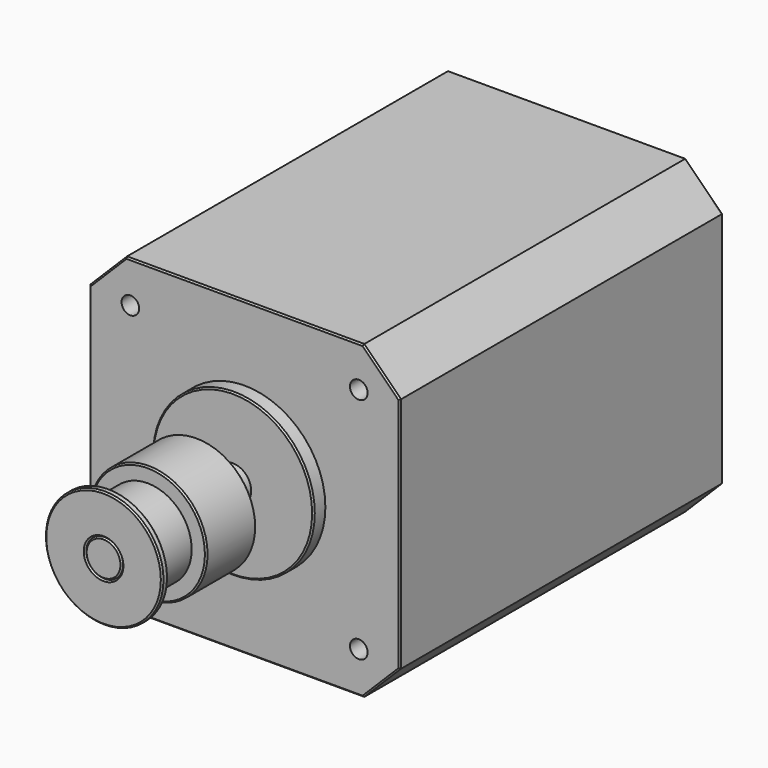
from build123d import *

# Parameters (mm, degrees)
F0_R      = 11
F0_R_2    = 2.5
F1_DEPTH  = 2
F2_DEPTH  = 24
F0_W      = 42.3
F0_H      = 42.3
F0_W_2    = 31.1
F0_H_2    = 31.1
F2_FACE_R = 11
F3_DEPTH  = 55
F4_SIZE   = 5
F5_SIZE   = 0.2
F6_D      = 2.4
F6_DEPTH  = 13.8
F6_TIP    = 0.7210327428
F7_R      = 8
F7_R_2    = 2.5
F8_DEPTH  = 16
F9_W      = 6.5
F9_H      = 2
F11_SIZE  = 0.2


with BuildPart() as f1:
    # F0 (on Front) → F1 (new body)
    with BuildSketch(Plane.XZ):
        Circle(F0_R)
        Circle(F0_R_2, mode=Mode.SUBTRACT)
    extrude(amount=F1_DEPTH)

    # F0 (on Front) → F2 (join)
    with BuildSketch(Plane.XZ):
        Circle(F0_R_2)
    extrude(amount=F2_DEPTH)

    # F0 (on Front) + F2_face (on face) → F3 (join)
    with BuildSketch(Plane.XZ):
        Rectangle(F0_W, F0_H)
        Rectangle(F0_W_2, F0_H_2, mode=Mode.SUBTRACT)
        Rectangle(F0_W_2, F0_H_2)
        Circle(F0_R, mode=Mode.SUBTRACT)
    with BuildSketch(Plane(origin=(0, 0, 0), x_dir=(-1, 0, 0), z_dir=(0, 1, 0))):
        Circle(F2_FACE_R)
    extrude(amount=-F3_DEPTH, dir=(0, -1, 0))

    # F4
    f4_edges = [f1.edges().sort_by_distance(p)[0] for p in [
        (21.15, 27.5, 21.15),
        (21.15, 27.5, -21.15),
        (-21.15, 27.5, -21.15),
        (-21.15, 27.5, 21.15),
    ]]
    chamfer(f4_edges, length=F4_SIZE)

    # F5
    f5_edges = [f1.edges().sort_by_distance(p)[0] for p in [
        (-11, -2, 0),
        (-2.5, -24, 0),
        (21.15, 55, 0),
        (18.65, 55, -18.65),
        (18.65, 55, 18.65),
        (0, 55, -21.15),
        (0, 55, 21.15),
        (-18.65, 55, -18.65),
        (-18.65, 55, 18.65),
        (-21.15, 55, 0),
        (0, 0, 21.15),
        (18.65, 0, 18.65),
        (21.15, 0, 0),
        (18.65, 0, -18.65),
        (0, 0, -21.15),
        (-18.65, 0, -18.65),
        (-21.15, 0, 0),
        (-18.65, 0, 18.65),
    ]]
    chamfer(f5_edges, length=F5_SIZE)

    # F6
    with Locations(Plane.XZ):
        with Locations((-15.55, 15.55), (15.55, 15.55), (15.55, -15.55), (-15.55, -15.55)):
            Hole(F6_D / 2, depth=F6_DEPTH)
            with Locations((0, 0, -(F6_DEPTH + F6_TIP / 2))):  # 118° drill point
                Cone(0, F6_D / 2, F6_TIP, mode=Mode.SUBTRACT)


with BuildPart() as f8:
    # F7 (on face) → F8 (new body)
    with BuildSketch(Plane.XZ.offset(24)):
        Circle(F7_R)
        Circle(F7_R_2, mode=Mode.SUBTRACT)
    extrude(amount=-F8_DEPTH)

    # F9 (on Right) → F10 (revolve, cut)
    with BuildSketch(Plane.YZ):
        with Locations((-19.75, 7)):
            Rectangle(F9_W, F9_H)
    revolve(axis=Axis((0, -24, 0), (0, -1, 0)), mode=Mode.SUBTRACT)

    # F11
    f11_edges = [f8.edges().sort_by_distance(p)[0] for p in [
        (-8, -24, 0),
        (-2.5, -24, 0),
        (-8, -23, 0),
        (-8, -16.5, 0),
        (8, -12.25, 0),
        (-8, -8, 0),
        (-2.5, -8, 0),
    ]]
    chamfer(f11_edges, length=F11_SIZE)


solid = Compound([f1.part, f8.part])
